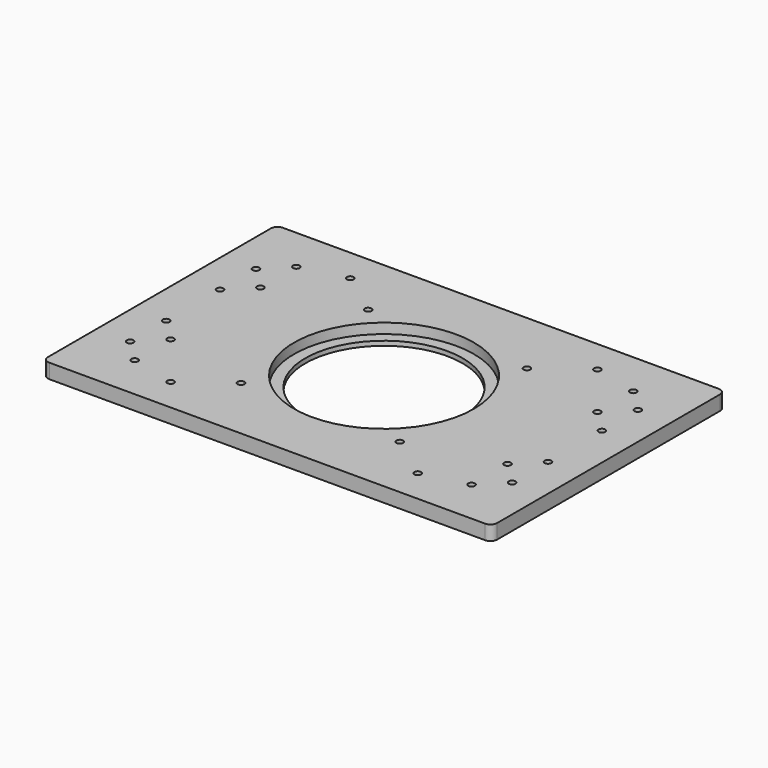
from build123d import *

# Parameters (mm, degrees)
SKETCH_W     = 200
SKETCH_H     = 130
SKETCH_R     = 35
SKETCH_R_2   = 1.5
PAD_DEPTH    = 6.5
SKETCH001_R  = 40
POCKET_DEPTH = 4.5
FILLET_R     = 3


with BuildPart() as part:
    # Sketch → Pad (new body)
    with BuildSketch(Plane.XY):
        with Locations((100, 65)):
            Rectangle(SKETCH_W, SKETCH_H)
        with Locations((100, 65)):
            Circle(SKETCH_R, mode=Mode.SUBTRACT)
        with Locations((45, 115)):
            Circle(SKETCH_R_2, mode=Mode.SUBTRACT)
        with Locations((45, 15)):
            Circle(SKETCH_R_2, mode=Mode.SUBTRACT)
        with Locations((155, 115)):
            Circle(SKETCH_R_2, mode=Mode.SUBTRACT)
        with Locations((155, 15)):
            Circle(SKETCH_R_2, mode=Mode.SUBTRACT)
        with Locations((185, 30)):
            Circle(SKETCH_R_2, mode=Mode.SUBTRACT)
        with Locations((135.353085, 100.338453)):
            Circle(SKETCH_R_2, mode=Mode.SUBTRACT)
        with Locations((64.627773, 29.642413)):
            Circle(SKETCH_R_2, mode=Mode.SUBTRACT)
        with Locations((64.64463, 100.35537)):
            Circle(SKETCH_R_2, mode=Mode.SUBTRACT)
        with Locations((135.352442, 29.63292)):
            Circle(SKETCH_R_2, mode=Mode.SUBTRACT)
        with Locations((175, 20)):
            Circle(SKETCH_R_2, mode=Mode.SUBTRACT)
        with Locations((175, 40)):
            Circle(SKETCH_R_2, mode=Mode.SUBTRACT)
        with Locations((185, 50)):
            Circle(SKETCH_R_2, mode=Mode.SUBTRACT)
        with Locations((175, 90)):
            Circle(SKETCH_R_2, mode=Mode.SUBTRACT)
        with Locations((175, 110)):
            Circle(SKETCH_R_2, mode=Mode.SUBTRACT)
        with Locations((185, 80)):
            Circle(SKETCH_R_2, mode=Mode.SUBTRACT)
        with Locations((185, 100)):
            Circle(SKETCH_R_2, mode=Mode.SUBTRACT)
        with Locations((15, 30)):
            Circle(SKETCH_R_2, mode=Mode.SUBTRACT)
        with Locations((25, 20)):
            Circle(SKETCH_R_2, mode=Mode.SUBTRACT)
        with Locations((25, 40)):
            Circle(SKETCH_R_2, mode=Mode.SUBTRACT)
        with Locations((15, 50)):
            Circle(SKETCH_R_2, mode=Mode.SUBTRACT)
        with Locations((25, 90)):
            Circle(SKETCH_R_2, mode=Mode.SUBTRACT)
        with Locations((25, 110)):
            Circle(SKETCH_R_2, mode=Mode.SUBTRACT)
        with Locations((15, 80)):
            Circle(SKETCH_R_2, mode=Mode.SUBTRACT)
        with Locations((15, 100)):
            Circle(SKETCH_R_2, mode=Mode.SUBTRACT)
    extrude(amount=PAD_DEPTH)

    # Sketch001 (on Face31 of Pad) → Pocket (cut)
    with BuildSketch(Plane.XY.offset(6.5)):
        with Locations((100, 65)):
            Circle(SKETCH001_R)
    extrude(amount=-POCKET_DEPTH, mode=Mode.SUBTRACT)

    # Fillet
    fillet_edges = [part.edges().sort_by_distance(p)[0] for p in [
        (200, 0, 3.25),
        (200, 130, 3.25),
        (0, 0, 3.25),
        (0, 130, 3.25),
    ]]
    fillet(fillet_edges, radius=FILLET_R)


solid = part.part
